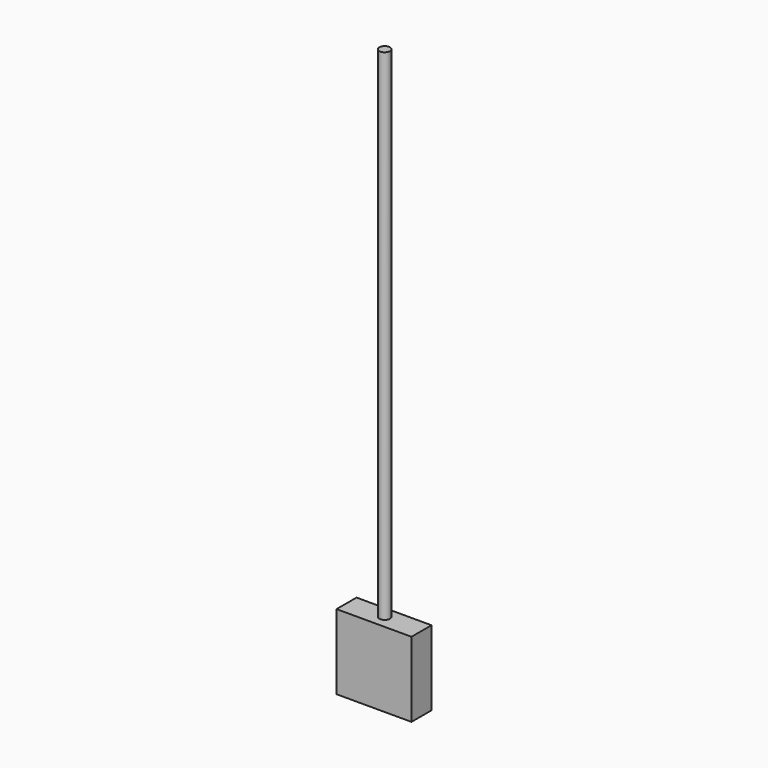
from build123d import *

# Parameters (mm, degrees)
F0_W     = 15
F0_H     = 15
F1_DEPTH = 5
F2_R     = 1.060334
F3_DEPTH = 100


with BuildPart() as f1:
    # F0 (on Front) → F1 (new body)
    with BuildSketch(Plane.XZ):
        Rectangle(F0_W, F0_H)
    extrude(amount=F1_DEPTH)

    # F2 (on face) → F3 (join)
    with BuildSketch(Plane.XY.offset(7.5)):
        with Locations((0, -2.346053)):
            Circle(F2_R)
    extrude(amount=F3_DEPTH)


solid = f1.part
